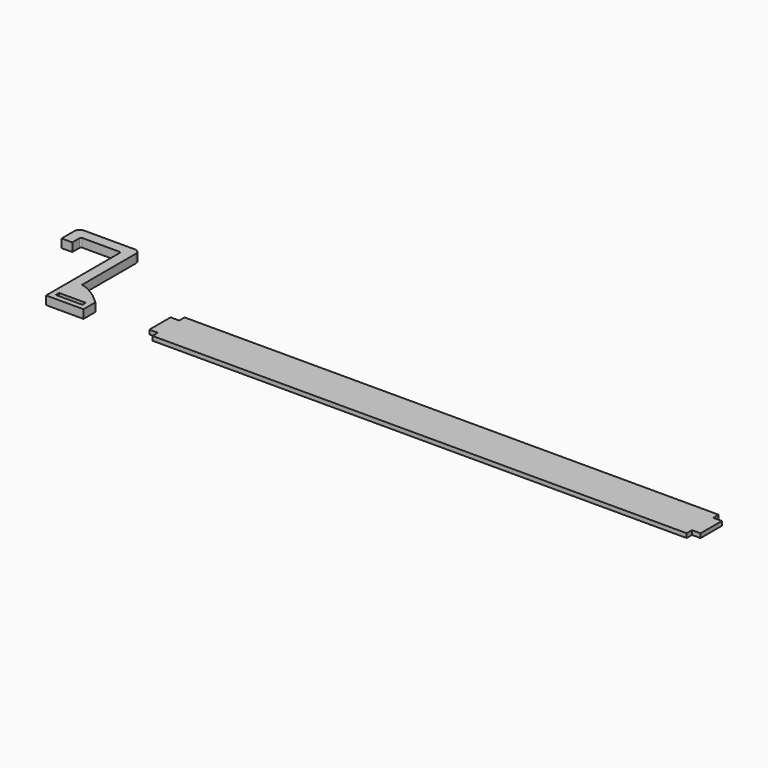
from build123d import *

# Parameters (mm, degrees)
F0_W     = 140
F0_H     = 56
F0_W_2   = 100
F0_H_2   = 16
F1_DEPTH = 32
F0_W_3   = 32
F0_H_3   = 100
F2_DEPTH = 16


with BuildPart() as f1:
    # F0 (on Top) → F1 (new body)
    with BuildSketch(Plane.XY):
        with BuildLine():
            Line((-686.3428330421, 263.4069502354), (-686.3428330421, -25.5930497646))
            Line((-686.3428330421, -25.5930497646), (-546.3428330421, -25.5930497646))
            add(Edge.make_bspline(
                [(-546.3428330421, -25.5930497646), (-569.2246597827, -3.878396387), (-598.5189486723, 17.9580086914), (-632.6180003572, 34.4530030745), (-646.3428330421, 35.9936502576)],
                knots=[0, 0, 0, 0, 0.5545970044, 1, 1, 1, 1], degree=3))
            Line((-646.3428330421, 35.9936502576), (-646.3428330421, 288.4069502354))
            ThreePointArc((-646.3428330421, 288.4069502354), (-652.2006974184, 302.5490858591), (-666.3428330421, 308.4069502354))
            Line((-666.3428330421, 308.4069502354), (-856.3428330421, 308.4069502354))
            ThreePointArc((-856.3428330421, 308.4069502354), (-870.4849686659, 302.5490858591), (-876.3428330421, 288.4069502354))
            Line((-876.3428330421, 288.4069502354), (-876.3428330421, 268.4069502354))
            Line((-876.3428330421, 268.4069502354), (-876.3428330421, 228.4069502354))
            Line((-876.3428330421, 228.4069502354), (-836.3428330421, 228.4069502354))
            Line((-836.3428330421, 228.4069502354), (-836.3428330421, 263.4069502354))
            ThreePointArc((-836.3428330421, 263.4069502354), (-834.8783669481, 266.9424841413), (-831.3428330421, 268.4069502354))
            Line((-831.3428330421, 268.4069502354), (-691.3428330421, 268.4069502354))
            ThreePointArc((-691.3428330421, 268.4069502354), (-687.8072991362, 266.9424841413), (-686.3428330421, 263.4069502354))
        make_face()
        with Locations((-616.3428330421, -53.5930497646)):
            Rectangle(F0_W, F0_H)
        with Locations((-616.3428330421, -53.5930497646)):
            Rectangle(F0_W_2, F0_H_2, mode=Mode.SUBTRACT)
    extrude(amount=F1_DEPTH)


with BuildPart() as f2:
    # F0 (on Top) → F2 (new body)
    with BuildSketch(Plane.XY):
        Polygon((1697.3423092627, 86.6231827997), (-302.6576907373, 86.6231827997), (-302.6576907373, 61.6231827997), (-270.6576907373, 61.6231827997), (-270.6576907373, -38.3768172003), (-302.6576907373, -38.3768172003), (-302.6576907373, -63.3768172003), (1697.3423092627, -63.3768172003), (1697.3423092627, -38.3768172003), (1665.3423092627, -38.3768172003), (1665.3423092627, 61.6231827997), (1697.3423092627, 61.6231827997), align=None)
        with Locations((1681.3423092627, 11.6231827997)):
            Rectangle(F0_W_3, F0_H_3)
        with Locations((-318.6576907373, 11.6231827997)):
            Rectangle(F0_W_3, F0_H_3)
        with Locations((1713.3423092627, 11.6231827997)):
            Rectangle(F0_W_3, F0_H_3)
        with Locations((-286.6576907373, 11.6231827997)):
            Rectangle(F0_W_3, F0_H_3)
    extrude(amount=F2_DEPTH)


solid = Compound([f1.part, f2.part])
